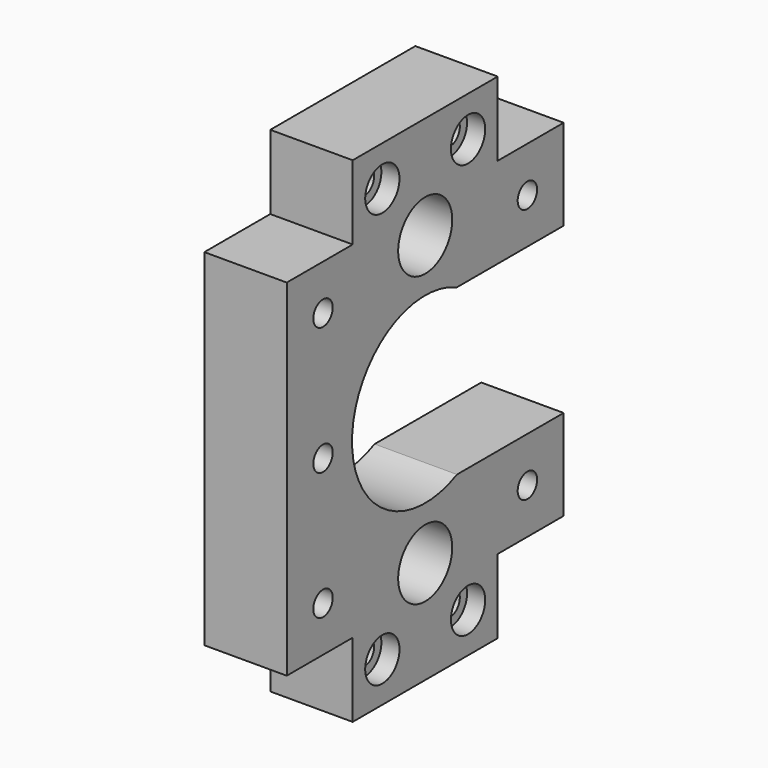
from build123d import *

# Parameters (mm, degrees)
SKETCH045_R     = 1.475
SKETCH045_R_2   = 4.1
SKETCH045_R_3   = 1.5
PAD013_DEPTH    = 10
SKETCH047_R     = 11.1
POCKET028_DEPTH = 10.001
SKETCH046_R     = 2.6
POCKET029_DEPTH = 2.2
SKETCH048_R     = 2.6
POCKET030_DEPTH = 2.2


with BuildPart() as part:
    # Sketch045 → Pad013 (new body)
    with BuildSketch(Plane.YZ):
        with BuildLine():
            Line((-21, -21), (-21, 21))
            Line((-21, 21), (-11, 21))
            Line((-11, 21), (-11, 30))
            Line((-11, 30), (11, 30))
            Line((11, 30), (11, 21))
            Line((11, 21), (21, 21))
            Line((21, 21), (21, 10))
            Line((21, 10), (0, 10))
            ThreePointArc((0, 10), (-10, 0), (0, -10))
            Line((21, -10), (0, -10))
            Line((21, -21), (21, -10))
            Line((11, -21), (21, -21))
            Line((11, -30), (11, -21))
            Line((-11, -30), (11, -30))
            Line((-11, -21), (-11, -30))
            Line((-21, -21), (-11, -21))
        make_face()
        with Locations((-15.5, 15.5)):
            Circle(SKETCH045_R, mode=Mode.SUBTRACT)
        with Locations((15.5, 15.5)):
            Circle(SKETCH045_R, mode=Mode.SUBTRACT)
        with Locations((-15.5, -15.5)):
            Circle(SKETCH045_R, mode=Mode.SUBTRACT)
        with Locations((15.5, -15.5)):
            Circle(SKETCH045_R, mode=Mode.SUBTRACT)
        with Locations((-15.5, 0)):
            Circle(SKETCH045_R, mode=Mode.SUBTRACT)
        with Locations((0, 17.5)):
            Circle(SKETCH045_R_2, mode=Mode.SUBTRACT)
        with Locations((0, -17.5)):
            Circle(SKETCH045_R_2, mode=Mode.SUBTRACT)
        with Locations((-6.5, 25.14)):
            Circle(SKETCH045_R_3, mode=Mode.SUBTRACT)
        with Locations((6.5, 25.14)):
            Circle(SKETCH045_R_3, mode=Mode.SUBTRACT)
        with Locations((-6.5, -25.14)):
            Circle(SKETCH045_R_3, mode=Mode.SUBTRACT)
        with Locations((6.5, -25.14)):
            Circle(SKETCH045_R_3, mode=Mode.SUBTRACT)
    extrude(amount=PAD013_DEPTH)

    # Sketch047 → Pocket028 (cut, through all)
    with BuildSketch(Plane.YZ):
        Circle(SKETCH047_R)
    extrude(amount=POCKET028_DEPTH, mode=Mode.SUBTRACT)

    # Sketch046 → Pocket029 (cut)
    with BuildSketch(Plane.YZ.offset(10)):
        with Locations((-6.5, 25.14)):
            Circle(SKETCH046_R)
        with Locations((6.5, 25.14)):
            Circle(SKETCH046_R)
        with Locations((-6.5, -25.14)):
            Circle(SKETCH046_R)
        with Locations((6.5, -25.14)):
            Circle(SKETCH046_R)
    extrude(amount=-POCKET029_DEPTH, mode=Mode.SUBTRACT)

    # Sketch048 → Pocket030 (cut)
    with BuildSketch(Plane.YZ):
        with Locations((-15.5, 15.5)):
            Circle(SKETCH048_R)
        with Locations((-15.5, 0)):
            Circle(SKETCH048_R)
        with Locations((-15.5, -15.5)):
            Circle(SKETCH048_R)
        with Locations((15.5, -15.5)):
            Circle(SKETCH048_R)
        with Locations((15.5, 15.5)):
            Circle(SKETCH048_R)
    extrude(amount=POCKET030_DEPTH, mode=Mode.SUBTRACT)


solid = part.part
